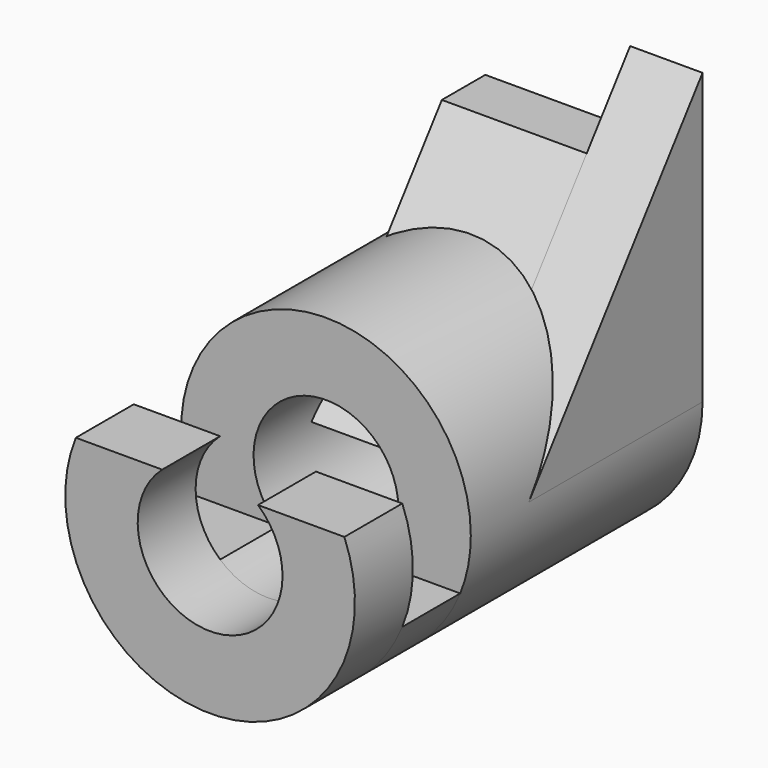
from build123d import *

# Parameters (mm, degrees)
F0_R      = 25.4
F0_R_2    = 12.7
F1_DEPTH  = 50.8
F4_DEPTH  = 12.7
F6_DEPTH  = 25.4
F8_DEPTH  = 12.7
F10_DEPTH = 12.7


with BuildPart() as f1:
    # F0 (on Front) → F1 (new body)
    with BuildSketch(Plane.XZ):
        Circle(F0_R)
        Circle(F0_R_2, mode=Mode.SUBTRACT)
    extrude(amount=F1_DEPTH)

    # F7 (on face) → F8 (join)
    with BuildSketch(Plane.XZ.offset(50.8)):
        with BuildLine():
            ThreePointArc((8.40026, -9.525), (0, -12.7), (-8.40026, -9.525))
            Line((-8.40026, -9.525), (-23.54643, -9.525))
            ThreePointArc((-23.54643, -9.525), (0, -25.4), (23.54643, -9.525))
            Line((23.54643, -9.525), (8.40026, -9.525))
        make_face()
    extrude(amount=F8_DEPTH)

    # F9 (on face) → F10 (join)
    with BuildSketch(Plane.XZ.offset(63.5)):
        with BuildLine():
            ThreePointArc((8.40026, 9.525), (0, -12.7), (-8.40026, 9.525))
            Line((-8.40026, 9.525), (-23.54643, 9.525))
            ThreePointArc((-23.54643, 9.525), (0, -25.4), (23.54643, 9.525))
            Line((23.54643, 9.525), (8.40026, 9.525))
        make_face()
    extrude(amount=F10_DEPTH)


with BuildPart() as f4:
    # F3 (on offset) → F4 (new body)
    with BuildSketch(Plane.YZ.offset(25.4)):
        Polygon((-38.1, 0), (0, 0), (0, 50.8), align=None)
    extrude(amount=-F4_DEPTH)


with BuildPart() as f6:
    # F5 (on face) → F6 (new body)
    with BuildSketch(Plane(origin=(12.7, 0, 0), x_dir=(0, -1, 0), z_dir=(-1, 0, 0))):
        Polygon((0, 38.1), (0, 0), (38.1, 0), (9.525, 38.1), align=None)
    extrude(amount=F6_DEPTH)


solid = Compound([f1.part, f4.part, f6.part])
